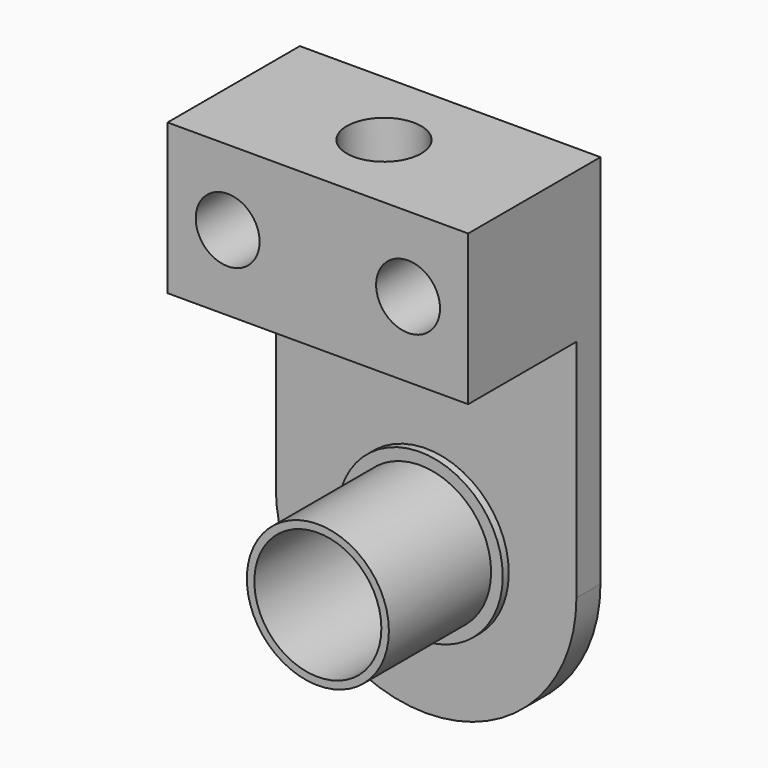
from build123d import *

# Parameters (mm, degrees)
F1_DEPTH  = 2
F2_R      = 4.725
F2_R_2    = 4.225
F3_DEPTH  = 9
F4_W      = 20
F4_H      = 10
F5_DEPTH  = 9
F6_R      = 2.475
F7_DEPTH  = 10
F9_R      = 2.125
F10_DEPTH = 10
F12_R     = 5.5
F12_R_2   = 4.725
F13_DEPTH = 0.5


with BuildPart() as f1:
    # F0 (on Front) → F1 (new body)
    with BuildSketch(Plane.XZ):
        with BuildLine():
            ThreePointArc((-10, 8.3066238629), (0, 13), (10, 8.3066238629))
            Line((10, 8.3066238629), (10, 25))
            Line((10, 25), (-10, 25))
            Line((-10, 25), (-10, 8.3066238629))
        make_face()
        with BuildLine():
            Line((10, 0), (10, 8.3066238629))
            ThreePointArc((10, 8.3066238629), (0, 13), (-10, 8.3066238629))
            Line((-10, 8.3066238629), (-10, 0))
            ThreePointArc((-10, 0), (0, 10), (10, 0))
        make_face()
        with BuildLine():
            ThreePointArc((-10, 0), (0, -10), (10, 0))
            Line((10, 0), (5, 0))
            ThreePointArc((5, 0), (0, -5), (-5, 0))
            Line((-5, 0), (-10, 0))
        make_face()
        with BuildLine():
            Line((5, 0), (10, 0))
            ThreePointArc((10, 0), (0, 10), (-10, 0))
            Line((-10, 0), (-5, 0))
            ThreePointArc((-5, 0), (0, 5), (5, 0))
        make_face()
        with BuildLine():
            Line((4.5, 0), (5, 0))
            ThreePointArc((5, 0), (0, 5), (-5, 0))
            Line((-5, 0), (-4.5, 0))
            ThreePointArc((-4.5, 0), (0, 4.5), (4.5, 0))
        make_face()
        with BuildLine():
            ThreePointArc((-5, 0), (0, -5), (5, 0))
            Line((5, 0), (4.5, 0))
            ThreePointArc((4.5, 0), (0, -4.5), (-4.5, 0))
            Line((-4.5, 0), (-5, 0))
        make_face()
    extrude(amount=F1_DEPTH)

    # F2 (on face) → F3 (join)
    with BuildSketch(Plane.XZ.offset(2)):
        Circle(F2_R)
        Circle(F2_R_2, mode=Mode.SUBTRACT)
    extrude(amount=F3_DEPTH)

    # F4 (on face) → F5 (join)
    with BuildSketch(Plane.XZ.offset(2)):
        with Locations((0, 20)):
            Rectangle(F4_W, F4_H)
    extrude(amount=F5_DEPTH)


with BuildPart() as f7:
    # F6 (on face) → F7 (new body)
    with BuildSketch(Plane.XY.offset(25)):
        with Locations((0, -5.5)):
            Circle(F6_R)
    extrude(amount=-F7_DEPTH)


with BuildPart() as f1_1:
    add(f1.part)

    # F8: cut F7
    add(f7.part, mode=Mode.SUBTRACT)


with BuildPart() as f10:
    # F9 (on face) → F10 (new body)
    with BuildSketch(Plane.XZ.offset(11)):
        with Locations((-6, 20)):
            Circle(F9_R)
    extrude(amount=-F10_DEPTH)


with BuildPart() as f10b:
    # F9 (on face) → F10, piece 2 (new body)
    with BuildSketch(Plane.XZ.offset(11)):
        with Locations((6, 20)):
            Circle(F9_R)
    extrude(amount=-F10_DEPTH)


with BuildPart() as f1_2:
    add(f1_1.part)

    # F11: cut F10b, F10
    add(f10b.part, mode=Mode.SUBTRACT)
    add(f10.part, mode=Mode.SUBTRACT)

    # F12 (on face) → F13 (join)
    with BuildSketch(Plane.XZ.offset(2)):
        Circle(F12_R)
        Circle(F12_R_2, mode=Mode.SUBTRACT)
    extrude(amount=F13_DEPTH)


solid = f1_2.part
